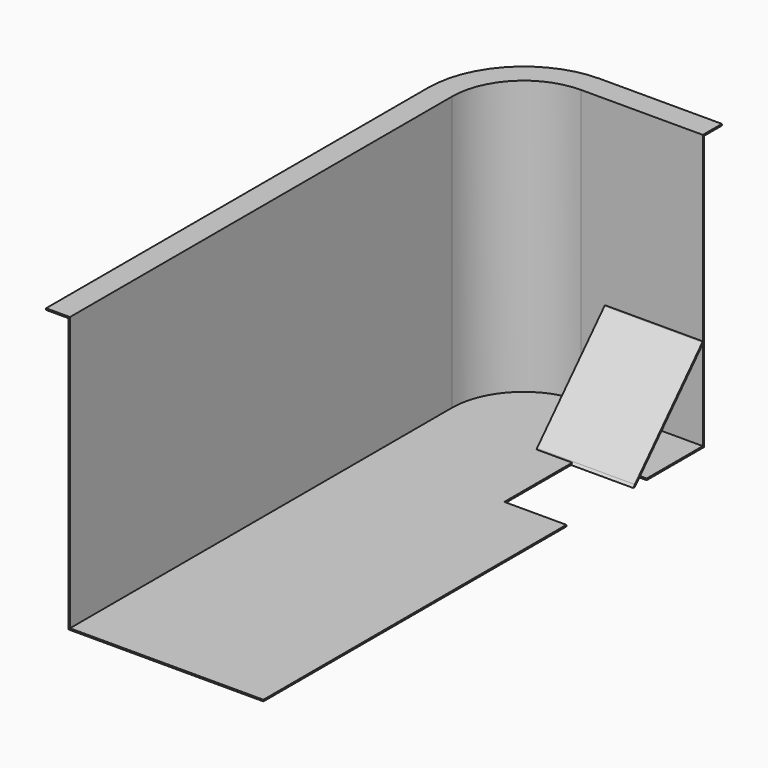
from build123d import *

# Parameters (mm, degrees)
F0_W     = 50
F0_H     = 1000
F0_W_2   = 255
F0_H_2   = 50
F1_DEPTH = 3.2
F3_DEPTH = 573.6
F5_DEPTH = 3.2
F7_DEPTH = 205


with BuildPart() as f1:
    # F0 (on Top) → F1 (new body)
    with BuildSketch(Plane.XY):
        with Locations((25, 500)):
            Rectangle(F0_W, F0_H)
        with BuildLine():
            ThreePointArc((200, 1200), (58.578644, 1141.421356), (0, 1000))
            Line((0, 1000), (50, 1000))
            ThreePointArc((50, 1000), (93.933983, 1106.066017), (200, 1150))
            Line((200, 1150), (200, 1200))
        make_face()
        with Locations((327.5, 1175)):
            Rectangle(F0_W_2, F0_H_2)
    extrude(amount=F1_DEPTH)

    # F2 (on face) → F3 (join)
    with BuildSketch(Plane(origin=(0, 0, 0), x_dir=(1, 0, 0), z_dir=(0, 0, -1))):
        with BuildLine():
            ThreePointArc((46.8, -1000), (91.671241, -1108.328759), (200, -1153.2))
            Line((200, -1153.2), (455, -1153.2))
            Line((455, -1153.2), (455, -1150))
            Line((455, -1150), (200, -1150))
            ThreePointArc((200, -1150), (93.933983, -1106.066017), (50, -1000))
            Line((50, -1000), (50, 0))
            Line((50, 0), (46.8, 0))
            Line((46.8, 0), (46.8, -1000))
        make_face()
    extrude(amount=F3_DEPTH)


with BuildPart() as f5:
    # F4 (on face) → F5 (new body)
    with BuildSketch(Plane(origin=(0, 0, -573.6), x_dir=(1, 0, 0), z_dir=(0, 0, -1))):
        with BuildLine():
            Line((200, -1150), (455, -1150))
            Line((455, -1150), (455, -1003))
            Line((455, -1003), (325, -1003))
            Line((325, -1003), (325, -793))
            Line((325, -793), (455, -793))
            Line((455, -793), (455, 0))
            Line((455, 0), (50, 0))
            Line((50, 0), (50, -1000))
            ThreePointArc((50, -1000), (93.933983, -1106.066017), (200, -1150))
        make_face()
    extrude(amount=-F5_DEPTH)


with BuildPart() as f7:
    # F6 (on face) → F7 (new body)
    with BuildSketch(Plane.YZ.offset(455)):
        Polygon((1153.2, -378.6), (1150, -378.6), (1148.833947, -378.6), (972.2, -568.896241), (972.2, -573.6), align=None)
        Polygon((1148.833947, -378.6), (1150, -378.6), (1153.2, -378.6), (1153.2, -373.896241), align=None)
        Polygon((972.2, -573.6), (972.2, -568.896241), (967.833947, -573.6), align=None)
    extrude(amount=-F7_DEPTH)


solid = Compound([f1.part, f5.part, f7.part])
